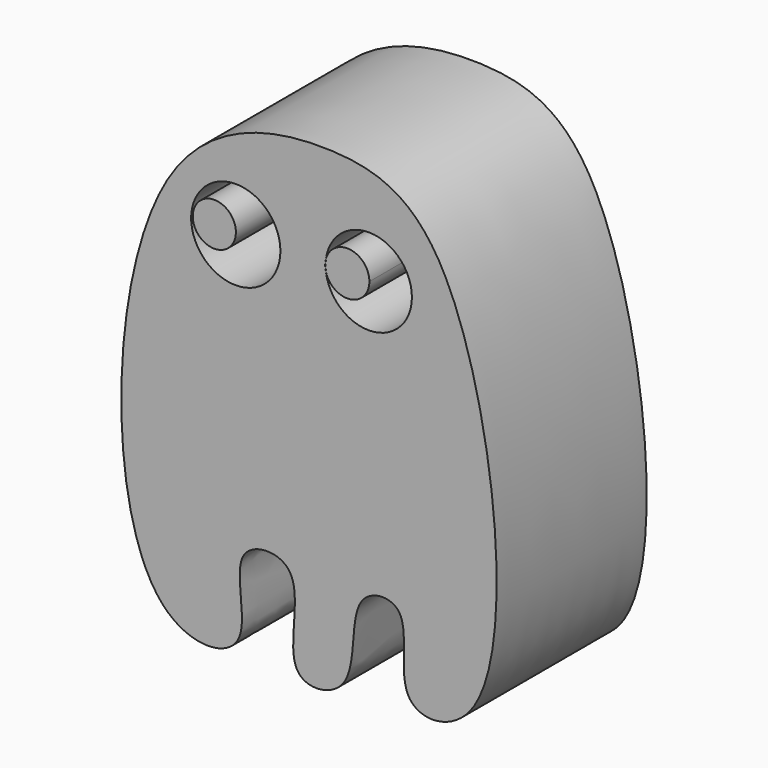
from build123d import *

# Parameters (mm, degrees)
F0_R     = 6.0431919973
F1_DEPTH = 25.4
F0_R_2   = 2.9186598428


with BuildPart() as f1:
    # F0 (on Front) → F1 (new body)
    with BuildSketch(Plane.XZ):
        with BuildLine():
            add(Edge.make_bspline(
                [(-38.0446836352, -12.3427407816), (-45.8718230915, -3.7724575686), (-45.0985940397, 45.2332393793), (-14.9302426385, 51.0057128408), (4.5313178015, 44.3489239628), (11.6491762621, -14.4053939947), (-7.8029565367, -15.0852006309), (-3.4150529093, -1.0878406693), (-13.7409969829, -1.6653001257), (-10.6597108632, -15.3174777), (-23.154566088, -16.6431857899), (-17.3630462788, -0.7003596263), (-30.3811789456, -1.0828250538), (-24.1265142603, -15.6920927165), (-34.5379830585, -16.182383253), (-38.0446836352, -12.3427407816)],
                knots=[0, 0, 0, 0, 0.1428496765, 0.2421262111, 0.327447321, 0.4704889987, 0.5290657875, 0.5923664898, 0.6369265318, 0.7035593336, 0.7531541164, 0.8216171907, 0.8711001547, 0.9360007515, 1, 1, 1, 1], degree=3))
        make_face()
        with Locations((-28.1704906374, 34.9952988327)):
            Circle(F0_R, mode=Mode.SUBTRACT)
        with BuildLine():
            ThreePointArc((-15.9584378498, 36.0539526358), (-9.779657243, 41.117565315), (-4.3200722161, 35.285718739))
            ThreePointArc((-4.3200722161, 35.285718739), (-9.779657243, 29.4538721631), (-15.9584378498, 34.5174848423))
            ThreePointArc((-15.9584378498, 34.5174848423), (-16.0588145512, 35.285718739), (-15.9584378498, 36.0539526358))
        make_face(mode=Mode.SUBTRACT)
    extrude(amount=F1_DEPTH)


with BuildPart() as f1b:
    # F0 (on Front) → F1, piece 2 (new body)
    with BuildSketch(Plane.XZ):
        with Locations((-31.0746654868, 35.285718739)):
            Circle(F0_R_2)
    extrude(amount=F1_DEPTH)


with BuildPart() as f1c:
    # F0 (on Front) → F1, piece 3 (new body)
    with BuildSketch(Plane.XZ):
        with BuildLine():
            ThreePointArc((-10.0787535054, 35.285718739), (-12.6814021746, 38.2505488906), (-15.9584378498, 36.0539526358))
            ThreePointArc((-15.9584378498, 36.0539526358), (-16.0091480043, 35.285718739), (-15.9584378498, 34.5174848423))
            ThreePointArc((-15.9584378498, 34.5174848423), (-12.6814021746, 32.3208885875), (-10.0787535054, 35.285718739))
        make_face()
    extrude(amount=F1_DEPTH)


solid = Compound([f1.part, f1b.part, f1c.part])
